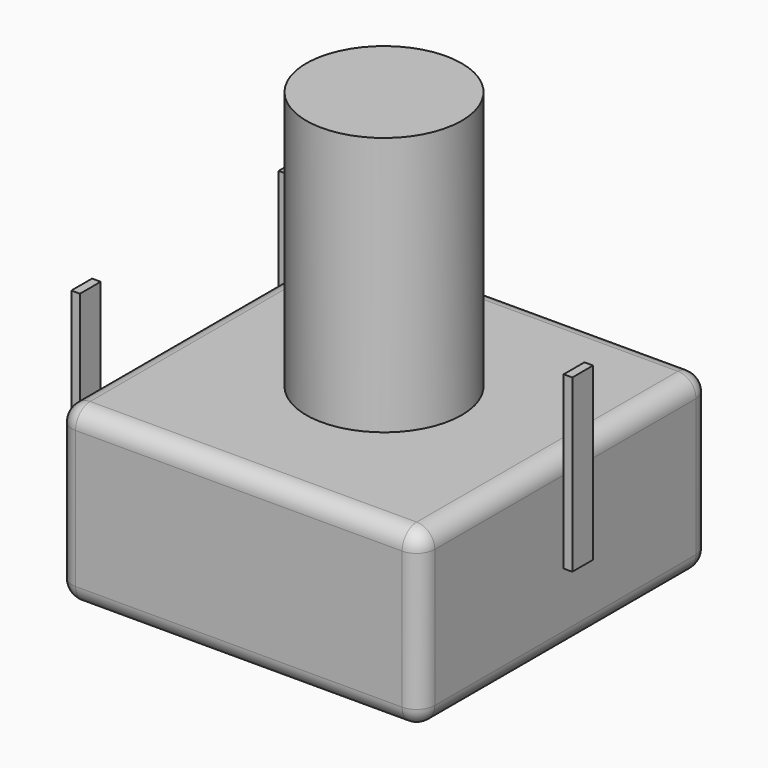
from build123d import *

# Parameters (mm, degrees)
SKETCH003_W       = 0.333334
SKETCH003_H       = 1
PAD002_DEPTH      = 1
PAD002_DEPTH_BACK = 5.6
SKETCH004_R       = 3
SKETCH004_W       = 4.5
SKETCH004_H       = 1.2
PAD003_DEPTH      = 6.7
SKETCH006_R       = 3
PAD005_DEPTH      = 10
SKETCH_W          = 14
SKETCH_H          = 14
SKETCH_R          = 3
PAD_DEPTH         = 6.7
FILLET_R          = 0.7


with BuildPart() as pad002:
    # Sketch003 → Pad002 (new body, two sides)
    with BuildSketch(Plane(origin=(0, 10, 0), x_dir=(1, 0, 0), z_dir=(0, 0, 1))) as pad002_sk:
        Rectangle(SKETCH003_W, SKETCH003_H)
        with Locations((15, -5)):
            Rectangle(SKETCH003_W, SKETCH003_H)
        with Locations((0, -10)):
            Rectangle(SKETCH003_W, SKETCH003_H)
    extrude(amount=PAD002_DEPTH)
    extrude(pad002_sk.sketch, amount=-PAD002_DEPTH_BACK)


with BuildPart() as pad003:
    # Sketch004 → Pad003 (new body)
    with BuildSketch(Plane(origin=(0, 10, -2), x_dir=(1, 0, 0), z_dir=(0, 0, 1))):
        with Locations((7.5, -5)):
            Circle(SKETCH004_R)
        with Locations((7.5, -5)):
            Rectangle(SKETCH004_W, SKETCH004_H, mode=Mode.SUBTRACT)
    extrude(amount=-PAD003_DEPTH)


with BuildPart() as pad005:
    # Sketch006 → Pad005 (new body)
    with BuildSketch(Plane(origin=(0, 10, -2), x_dir=(1, 0, 0), z_dir=(0, 0, 1))):
        with Locations((7.5, -5)):
            Circle(SKETCH006_R)
    extrude(amount=PAD005_DEPTH)


with BuildPart() as fillet_body:
    # Sketch → Pad (new body)
    with BuildSketch(Plane(origin=(0, 10, -2), x_dir=(1, 0, 0), z_dir=(0, 0, 1))):
        with Locations((7.5, -5)):
            Rectangle(SKETCH_W, SKETCH_H)
        with Locations((7.5, -5)):
            Circle(SKETCH_R, mode=Mode.SUBTRACT)
    extrude(amount=-PAD_DEPTH)

    # Fillet
    fillet_edges = [fillet_body.edges().sort_by_distance(p)[0] for p in [
        (7.5, -2, -2),
        (0.5, 5, -2),
        (7.5, 12, -2),
        (14.5, 5, -2),
        (14.5, 12, -5.35),
        (14.5, -2, -5.35),
        (0.5, -2, -5.35),
        (7.5, -2, -8.7),
        (14.5, 5, -8.7),
        (0.5, 5, -8.7),
        (7.5, 12, -8.7),
        (0.5, 12, -5.35),
    ]]
    fillet(fillet_edges, radius=FILLET_R)


solid = Compound([pad002.part, pad003.part, pad005.part, fillet_body.part])
